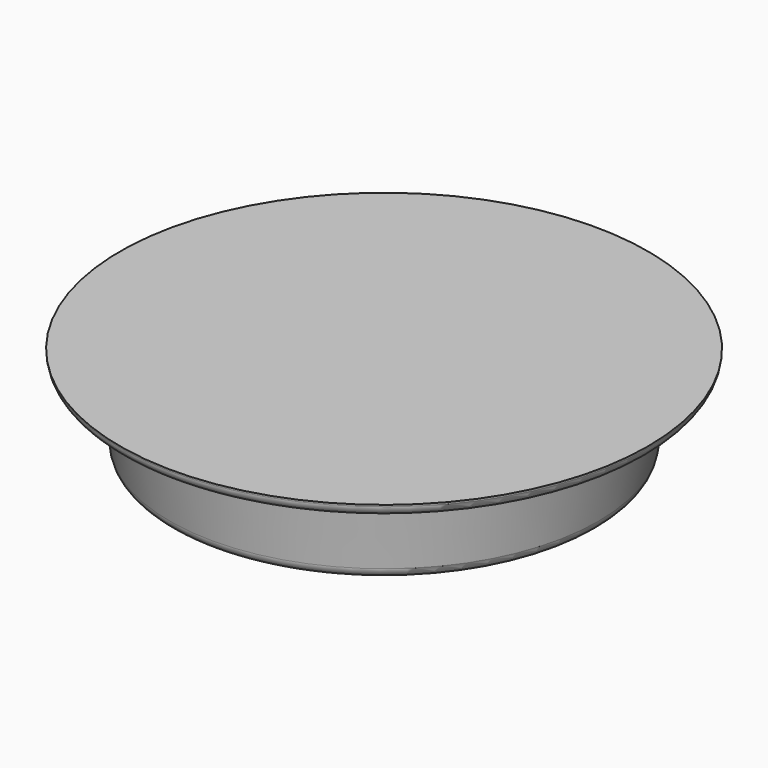
from build123d import *

# Parameters (mm, degrees)
F0_R     = 34.5
F1_DEPTH = 13
F1_TAPER = -8.75
F2_R     = 42.5
F3_DEPTH = 2
F3_TAPER = -8.7
F4_R     = 2


with BuildPart() as f1:
    # F0 (on Top) → F1 (new body)
    with BuildSketch(Plane.XY):
        Circle(F0_R)
    extrude(amount=F1_DEPTH, taper=F1_TAPER)

    # F2 (on face) → F3 (join)
    with BuildSketch(Plane.XY.offset(13)):
        Circle(F2_R)
    extrude(amount=F3_DEPTH, taper=F3_TAPER)

    # F4
    f4_edges = [f1.edges().sort_by_distance(p)[0] for p in [
        (-34.5, 0, 0),
        (-36.500891, 0, 13),
        (-42.5, 0, 13),
    ]]
    fillet(f4_edges, radius=F4_R)


solid = f1.part
